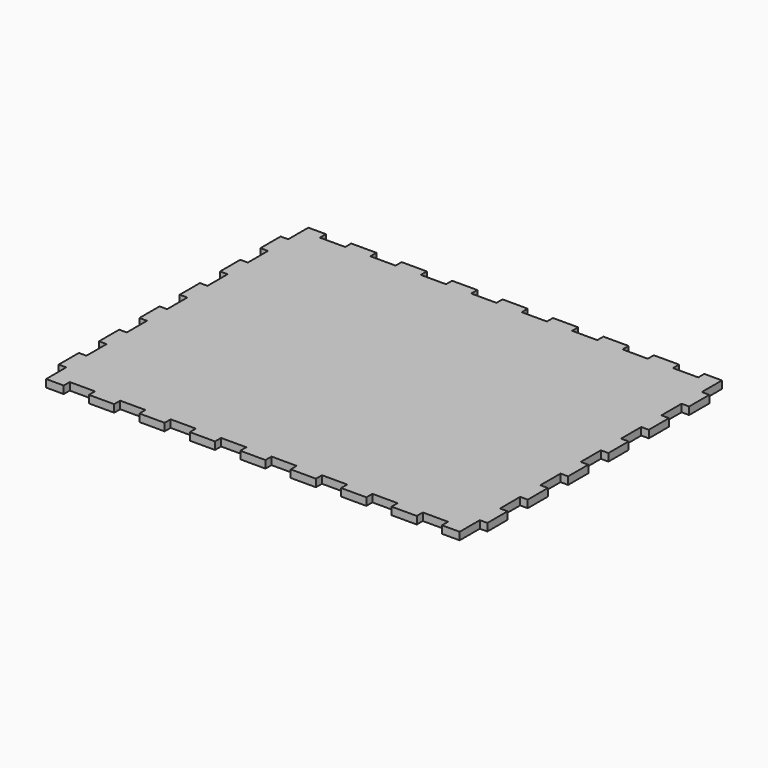
from build123d import *

# Parameters (mm, degrees)
F0_W     = 170
F0_H     = 130
F1_DEPTH = 3
F2_W     = 10
F2_H     = 3
F2_W_2   = 3
F2_H_2   = 10
F3_DEPTH = 3.001


with BuildPart() as f1:
    # F0 (on Top) → F1 (new body)
    with BuildSketch(Plane.XY):
        Rectangle(F0_W, F0_H)
    extrude(amount=F1_DEPTH)

    # F2 (on face) → F3 (cut, through all)
    with BuildSketch(Plane.XY.offset(3)):
        with Locations((-70, -63.5)):
            Rectangle(F2_W, F2_H)
        with Locations((-50, -63.5)):
            Rectangle(F2_W, F2_H)
        with Locations((-30, -63.5)):
            Rectangle(F2_W, F2_H)
        with Locations((-10, -63.5)):
            Rectangle(F2_W, F2_H)
        with Locations((10, -63.5)):
            Rectangle(F2_W, F2_H)
        with Locations((30, -63.5)):
            Rectangle(F2_W, F2_H)
        with Locations((50, -63.5)):
            Rectangle(F2_W, F2_H)
        with Locations((70, -63.5)):
            Rectangle(F2_W, F2_H)
        with Locations((-83.5, -60)):
            Rectangle(F2_W_2, F2_H_2)
        with Locations((-83.5, -40)):
            Rectangle(F2_W_2, F2_H_2)
        with Locations((-83.5, -20)):
            Rectangle(F2_W_2, F2_H_2)
        with Locations((-83.5, 0)):
            Rectangle(F2_W_2, F2_H_2)
        with Locations((-83.5, 20)):
            Rectangle(F2_W_2, F2_H_2)
        with Locations((-83.5, 40)):
            Rectangle(F2_W_2, F2_H_2)
        with Locations((-83.5, 60)):
            Rectangle(F2_W_2, F2_H_2)
        with Locations((83.5, -60)):
            Rectangle(F2_W_2, F2_H_2)
        with Locations((83.5, -40)):
            Rectangle(F2_W_2, F2_H_2)
        with Locations((83.5, 20)):
            Rectangle(F2_W_2, F2_H_2)
        with Locations((83.5, 60)):
            Rectangle(F2_W_2, F2_H_2)
        with Locations((83.5, 0)):
            Rectangle(F2_W_2, F2_H_2)
        with Locations((83.5, -20)):
            Rectangle(F2_W_2, F2_H_2)
        with Locations((83.5, 40)):
            Rectangle(F2_W_2, F2_H_2)
        with Locations((10, 63.5)):
            Rectangle(F2_W, F2_H)
        with Locations((-70, 63.5)):
            Rectangle(F2_W, F2_H)
        with Locations((50, 63.5)):
            Rectangle(F2_W, F2_H)
        with Locations((70, 63.5)):
            Rectangle(F2_W, F2_H)
        with Locations((-30, 63.5)):
            Rectangle(F2_W, F2_H)
        with Locations((-50, 63.5)):
            Rectangle(F2_W, F2_H)
        with Locations((30, 63.5)):
            Rectangle(F2_W, F2_H)
        with Locations((-10, 63.5)):
            Rectangle(F2_W, F2_H)
    extrude(amount=-F3_DEPTH, mode=Mode.SUBTRACT)


solid = f1.part
